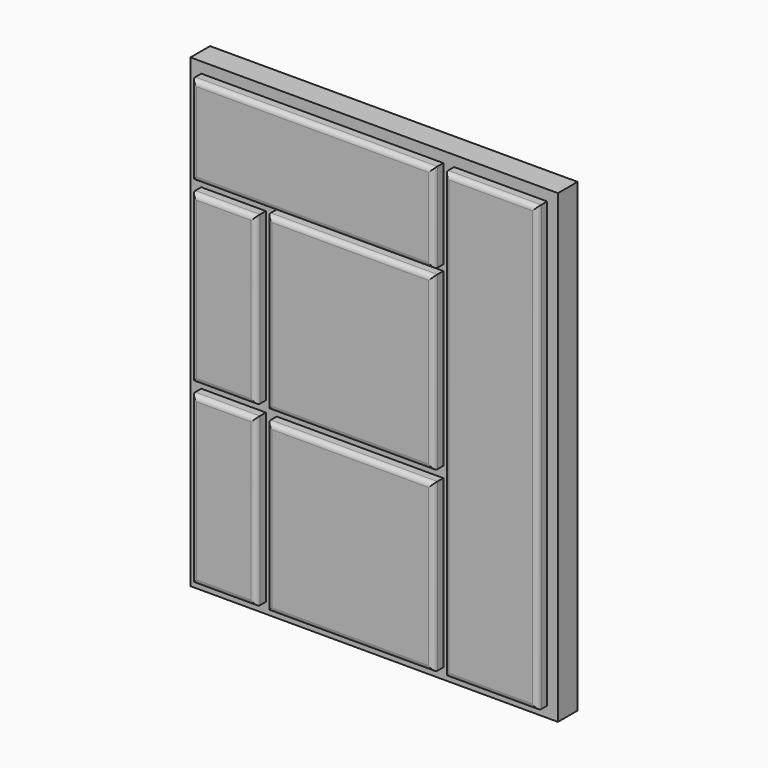
from build123d import *

# Parameters (mm, degrees)
SKETCH014_W   = 75
SKETCH014_H   = 95
PAD009_DEPTH  = 2.5
SKETCH013_W   = 49.4
SKETCH013_H   = 18.2
SKETCH013_W_2 = 19
SKETCH013_H_2 = 90.6
SKETCH013_W_3 = 13.2
SKETCH013_H_3 = 34
SKETCH013_W_4 = 34
SKETCH013_H_4 = 35
PAD010_DEPTH  = 5
FILLET006_R   = 1
FILLET007_R   = 1


with BuildPart() as part:
    # Sketch014 → Pad009 (new body, symmetric)
    with BuildSketch(Plane.XZ):
        Rectangle(SKETCH014_W, SKETCH014_H)
    extrude(amount=PAD009_DEPTH, both=True)

    # Sketch013 → Pad010 (join, symmetric)
    with BuildSketch(Plane.XZ):
        with Locations((-10.6, 36.2)):
            Rectangle(SKETCH013_W, SKETCH013_H)
        with Locations((25.8, 0)):
            Rectangle(SKETCH013_W_2, SKETCH013_H_2)
        with Locations((-28.7, 7.9)):
            Rectangle(SKETCH013_W_3, SKETCH013_H_3)
        with Locations((-28.7, -28.3)):
            Rectangle(SKETCH013_W_3, SKETCH013_H_3)
        with Locations((-2.9, 8.4)):
            Rectangle(SKETCH013_W_4, SKETCH013_H_4)
        with Locations((-2.9, -28.3)):
            Rectangle(SKETCH013_W_4, SKETCH013_H_3)
    extrude(amount=PAD010_DEPTH, both=True)

    # Fillet006
    fillet006_edges = [part.edges().sort_by_distance(p)[0] for p in [
        (-10.6, -5, 45.3),
        (14.1, -5, 36.2),
        (-10.6, -5, 27.1),
        (-35.3, -5, 36.2),
        (-28.7, -5, 24.9),
        (-22.1, -5, 7.9),
        (-28.7, -5, -9.1),
        (-35.3, -5, 7.9),
        (-2.9, -5, 25.9),
        (14.1, -5, 8.4),
        (-2.9, -5, -9.1),
        (-19.9, -5, 8.4),
        (-28.7, -5, -11.3),
        (-22.1, -5, -28.3),
        (-28.7, -5, -45.3),
        (-35.3, -5, -28.3),
        (-2.9, -5, -11.3),
        (14.1, -5, -28.3),
        (-2.9, -5, -45.3),
        (-19.9, -5, -28.3),
        (25.8, -5, 45.3),
        (35.3, -5, 0),
        (25.8, -5, -45.3),
        (16.3, -5, 0),
    ]]
    fillet(fillet006_edges, radius=FILLET006_R)

    # Fillet007
    fillet007_edges = [part.edges().sort_by_distance(p)[0] for p in [
        (-10.6, 5, 45.3),
        (14.1, 5, 36.2),
        (-10.6, 5, 27.1),
        (-35.3, 5, 36.2),
        (-28.7, 5, 24.9),
        (-22.1, 5, 7.9),
        (-28.7, 5, -9.1),
        (-35.3, 5, 7.9),
        (-2.9, 5, 25.9),
        (14.1, 5, 8.4),
        (-2.9, 5, -9.1),
        (-19.9, 5, 8.4),
        (-28.7, 5, -11.3),
        (-22.1, 5, -28.3),
        (-28.7, 5, -45.3),
        (-35.3, 5, -28.3),
        (-2.9, 5, -11.3),
        (14.1, 5, -28.3),
        (-2.9, 5, -45.3),
        (-19.9, 5, -28.3),
        (25.8, 5, 45.3),
        (35.3, 5, 0),
        (25.8, 5, -45.3),
        (16.3, 5, 0),
    ]]
    fillet(fillet007_edges, radius=FILLET007_R)


solid = part.part
